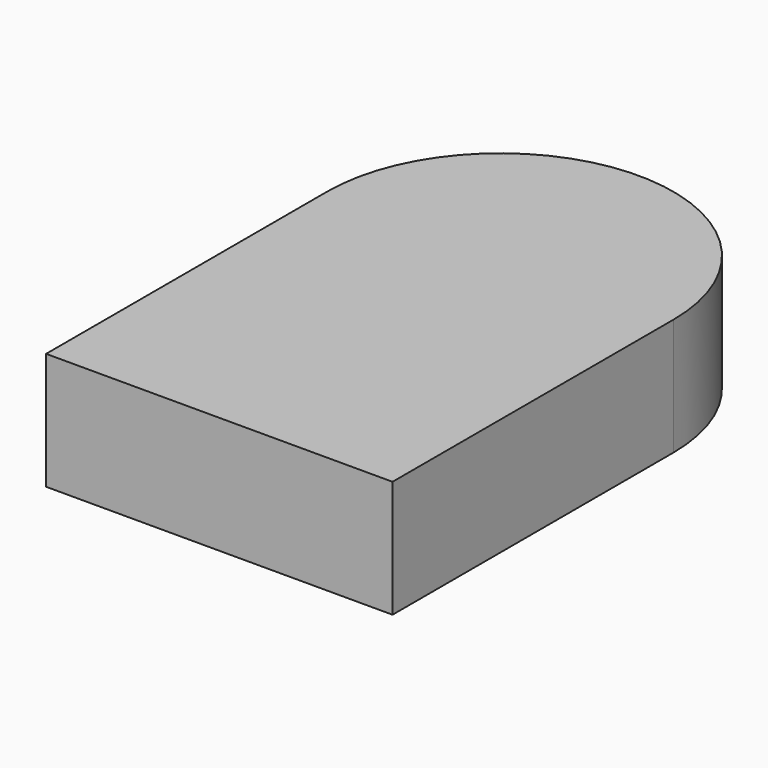
from build123d import *

# Parameters (mm, degrees)
F1_DEPTH = 3.175


with BuildPart() as f1:
    # F0 (on Top) → F1 (new body)
    with BuildSketch(Plane.XY):
        with BuildLine():
            ThreePointArc((-12.887201, -30.208536), (-17.586201, -34.907536), (-22.285201, -30.208536))
            Line((-22.285201, -30.208536), (-22.285201, -39.733536))
            Line((-22.285201, -39.733536), (-12.887201, -39.733536))
            Line((-12.887201, -39.733536), (-12.887201, -30.208536))
        make_face()
        with BuildLine():
            Line((-12.887201, -30.208536), (-22.285201, -30.208536))
            ThreePointArc((-22.285201, -30.208536), (-17.586201, -34.907536), (-12.887201, -30.208536))
        make_face()
        with BuildLine():
            ThreePointArc((-12.887201, -30.208536), (-17.586201, -25.509536), (-22.285201, -30.208536))
            Line((-22.285201, -30.208536), (-12.887201, -30.208536))
        make_face()
    extrude(amount=F1_DEPTH)


solid = f1.part
